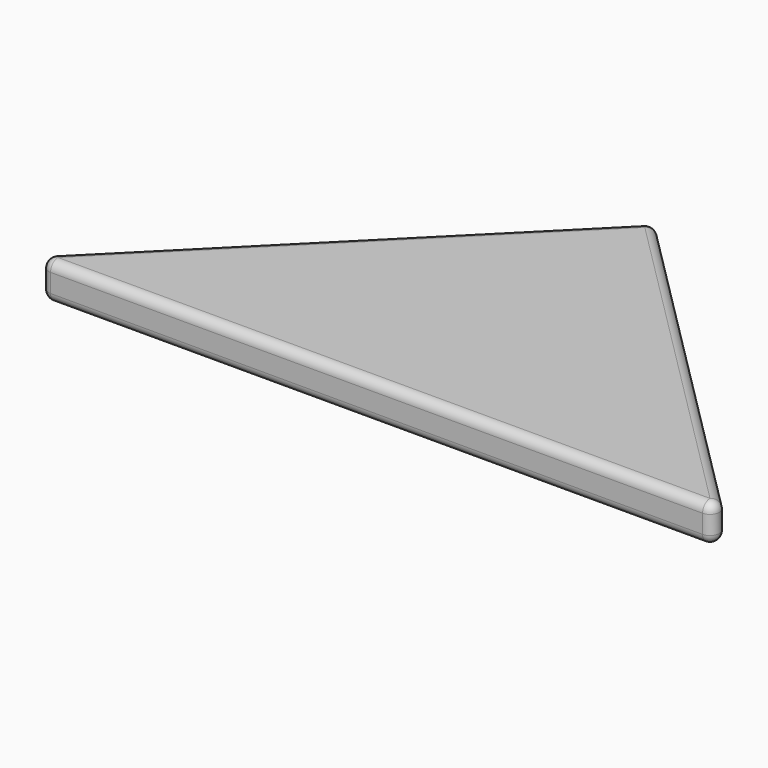
from build123d import *

# Parameters (mm, degrees)
PAD_DEPTH = 4
FILLET_R  = 1


with BuildPart() as part:
    # Sketch → Pad (new body)
    with BuildSketch(Plane.XY):
        Polygon((0, 0), (37.5, 37.5), (75, 0), align=None)
    extrude(amount=PAD_DEPTH)

    # Fillet
    fillet_edges = [part.edges().sort_by_distance(p)[0] for p in [
        (0, 0, 2),
        (37.5, 37.5, 2),
        (18.75, 18.75, 0),
        (18.75, 18.75, 4),
        (75, 0, 2),
        (56.25, 18.75, 0),
        (56.25, 18.75, 4),
        (37.5, 0, 0),
        (37.5, 0, 4),
    ]]
    fillet(fillet_edges, radius=FILLET_R)


solid = part.part
